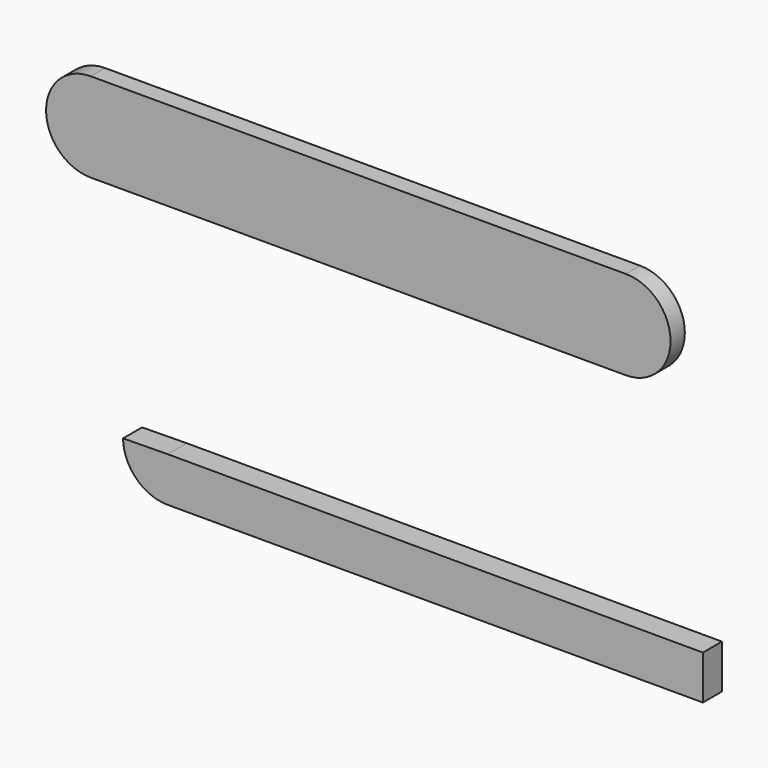
from build123d import *

# Parameters (mm, degrees)
F1_DEPTH = 4
F2_DEPTH = 3


with BuildPart() as f1:
    # F0 (on Front) → F1 (new body)
    with BuildSketch(Plane.XZ):
        Polygon((-28.899978, -43.166491), (-28.899978, -50.666491), (61.100022, -50.666491), (61.100022, -43.266491), align=None)
        with BuildLine():
            ThreePointArc((-36.399311, -43.266491), (-34.167805, -48.505031), (-28.899978, -50.666491))
            Line((-28.899978, -50.666491), (-28.899978, -43.166491))
            Line((-28.899978, -43.166491), (-36.399311, -43.266491))
        make_face()
    extrude(amount=F1_DEPTH)


with BuildPart() as f2:
    # F0 (on Front) → F2 (new body)
    with BuildSketch(Plane.XZ):
        with BuildLine():
            ThreePointArc((-50.137134, 0.3), (-47.905628, -4.938539), (-42.637801, -7.1))
            Line((-42.637801, -7.1), (-42.637801, 0.3))
            Line((-42.637801, 0.3), (-50.137134, 0.3))
        make_face()
        with BuildLine():
            Line((-50.137134, 0.3), (-42.637801, 0.3))
            Line((-42.637801, 0.3), (-42.637801, 7.9))
            ThreePointArc((-42.637801, 7.9), (-47.97634, 5.667827), (-50.137134, 0.3))
        make_face()
        with BuildLine():
            Line((47.362199, -1.1), (47.362199, -7.1))
            ThreePointArc((47.362199, -7.1), (54.862199, 0.4), (47.362199, 7.9))
            Line((47.362199, 7.9), (47.362199, 1.9))
            ThreePointArc((47.362199, 1.9), (48.422859, 1.46066), (48.862199, 0.4))
            ThreePointArc((48.862199, 0.4), (48.422859, -0.66066), (47.362199, -1.1))
        make_face()
        with BuildLine():
            Line((-42.637801, 0.3), (-42.637801, -7.1))
            Line((-42.637801, -7.1), (47.362199, -7.1))
            Line((47.362199, -7.1), (47.362199, -1.1))
            ThreePointArc((47.362199, -1.1), (46.337504, -0.695445), (45.865536, 0.3))
            Line((45.865536, 0.3), (-31.948796, 0.3))
            Line((-31.948796, 0.3), (-42.637801, 0.3))
        make_face()
        with BuildLine():
            Line((-42.637801, 7.9), (-42.637801, 0.3))
            Line((-42.637801, 0.3), (-31.948796, 0.3))
            Line((-31.948796, 0.3), (45.865536, 0.3))
            ThreePointArc((45.865536, 0.3), (46.266754, 1.424695), (47.362199, 1.9))
            Line((47.362199, 1.9), (47.362199, 7.9))
            Line((47.362199, 7.9), (-42.637801, 7.9))
        make_face()
        with BuildLine():
            ThreePointArc((45.865536, 0.3), (46.337504, -0.695445), (47.362199, -1.1))
            ThreePointArc((47.362199, -1.1), (48.422859, -0.66066), (48.862199, 0.4))
            ThreePointArc((48.862199, 0.4), (48.422859, 1.46066), (47.362199, 1.9))
            ThreePointArc((47.362199, 1.9), (46.266754, 1.424695), (45.865536, 0.3))
        make_face()
    extrude(amount=F2_DEPTH)


solid = Compound([f1.part, f2.part])
